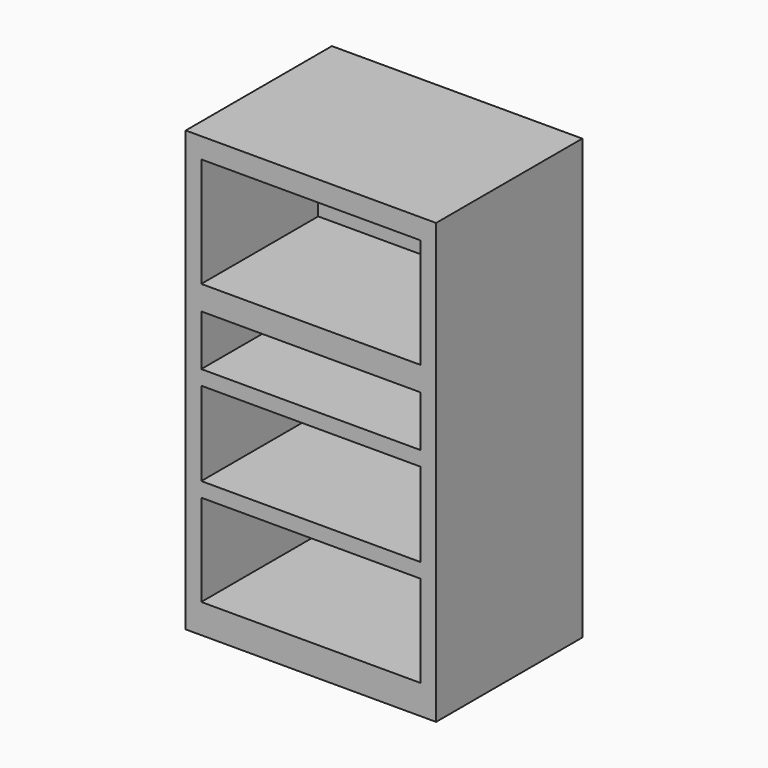
from build123d import *

# Parameters (mm, degrees)
F0_W     = 87.015488
F0_H     = 152.645812
F1_DEPTH = 12.7
F2_W     = 87.015488
F2_H     = 152.645812
F2_W_2   = 76.2
F2_H_2   = 38.1
F3_DEPTH = 50.8
F2_H_3   = 5.08
F4_DEPTH = 50.8


with BuildPart() as f1:
    # F0 (on Front) → F1 (new body)
    with BuildSketch(Plane.XZ):
        Rectangle(F0_W, F0_H)
    extrude(amount=F1_DEPTH)

    # F2 (on face) → F3 (join)
    with BuildSketch(Plane.XZ.offset(12.7)):
        Rectangle(F2_W, F2_H)
        Polygon((-38.1, 22.737094), (38.1, 22.737094), (38.1, 5.08), (38.1, 0), (38.1, -29.176182), (38.1, -34.256182), (38.1, -66.162906), (-38.1, -66.162906), (-38.1, -34.256182), (-38.1, -29.176182), (-38.1, 0), (-38.1, 5.08), align=None, mode=Mode.SUBTRACT)
        with Locations((0, 50.189414)):
            Rectangle(F2_W_2, F2_H_2, mode=Mode.SUBTRACT)
    extrude(amount=F3_DEPTH)

    # F2 (on face) → F4 (join)
    with BuildSketch(Plane.XZ.offset(12.7)):
        with Locations((0, 2.54)):
            Rectangle(F2_W_2, F2_H_3)
        with Locations((0, -31.716182)):
            Rectangle(F2_W_2, F2_H_3)
    extrude(amount=F4_DEPTH)


solid = f1.part
